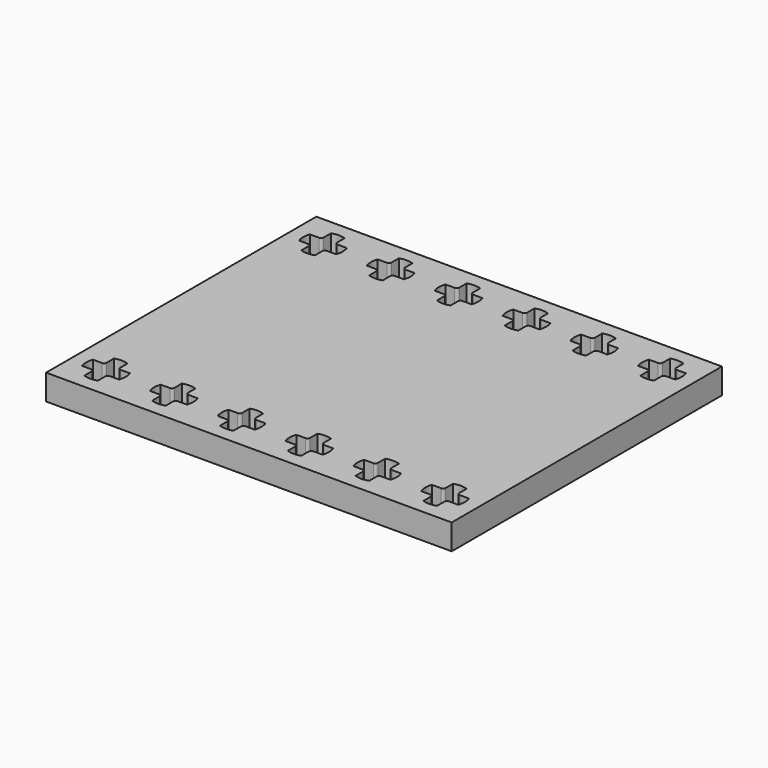
from build123d import *

# Parameters (mm, degrees)
F0_W     = 47.85
F0_H     = 39.85
F1_DEPTH = 3


with BuildPart() as f1:
    # F0 (on Top) → F1 (new body)
    with BuildSketch(Plane.XY):
        Rectangle(F0_W, F0_H)
        with BuildLine():
            Line((-17.816969, -16.8), (-18.9, -16.8))
            ThreePointArc((-18.9, -16.8), (-19.112132, -16.887868), (-19.2, -17.1))
            Line((-19.2, -17.1), (-19.2, -18.183031))
            ThreePointArc((-19.2, -18.183031), (-20, -18.325), (-20.8, -18.183031))
            Line((-20.8, -18.183031), (-20.8, -17.1))
            ThreePointArc((-20.8, -17.1), (-20.887868, -16.887868), (-21.1, -16.8))
            Line((-21.1, -16.8), (-22.183031, -16.8))
            ThreePointArc((-22.183031, -16.8), (-22.325, -16), (-22.183031, -15.2))
            Line((-22.183031, -15.2), (-21.1, -15.2))
            ThreePointArc((-21.1, -15.2), (-20.887868, -15.112132), (-20.8, -14.9))
            Line((-20.8, -14.9), (-20.8, -13.816969))
            ThreePointArc((-20.8, -13.816969), (-20, -13.675), (-19.2, -13.816969))
            Line((-19.2, -13.816969), (-19.2, -14.9))
            ThreePointArc((-19.2, -14.9), (-19.112132, -15.112132), (-18.9, -15.2))
            Line((-18.9, -15.2), (-17.816969, -15.2))
            ThreePointArc((-17.816969, -15.2), (-17.675, -16), (-17.816969, -16.8))
        make_face(mode=Mode.SUBTRACT)
        with BuildLine():
            ThreePointArc((-11.2, -14.9), (-11.112132, -15.112132), (-10.9, -15.2))
            Line((-10.9, -15.2), (-9.816969, -15.2))
            ThreePointArc((-9.816969, -15.2), (-9.675, -16), (-9.816969, -16.8))
            Line((-9.816969, -16.8), (-10.9, -16.8))
            ThreePointArc((-10.9, -16.8), (-11.112132, -16.887868), (-11.2, -17.1))
            Line((-11.2, -17.1), (-11.2, -18.183031))
            ThreePointArc((-11.2, -18.183031), (-12, -18.325), (-12.8, -18.183031))
            Line((-12.8, -18.183031), (-12.8, -17.1))
            ThreePointArc((-12.8, -17.1), (-12.887868, -16.887868), (-13.1, -16.8))
            Line((-13.1, -16.8), (-14.183031, -16.8))
            ThreePointArc((-14.183031, -16.8), (-14.325, -16), (-14.183031, -15.2))
            Line((-14.183031, -15.2), (-13.1, -15.2))
            ThreePointArc((-13.1, -15.2), (-12.887868, -15.112132), (-12.8, -14.9))
            Line((-12.8, -14.9), (-12.8, -13.816969))
            ThreePointArc((-12.8, -13.816969), (-12, -13.675), (-11.2, -13.816969))
            Line((-11.2, -13.816969), (-11.2, -14.9))
        make_face(mode=Mode.SUBTRACT)
        with BuildLine():
            ThreePointArc((-5.1, -15.2), (-4.887868, -15.112132), (-4.8, -14.9))
            Line((-4.8, -14.9), (-4.8, -13.816969))
            ThreePointArc((-4.8, -13.816969), (-4, -13.675), (-3.2, -13.816969))
            Line((-3.2, -13.816969), (-3.2, -14.9))
            ThreePointArc((-3.2, -14.9), (-3.112132, -15.112132), (-2.9, -15.2))
            Line((-2.9, -15.2), (-1.816969, -15.2))
            ThreePointArc((-1.816969, -15.2), (-1.675, -16), (-1.816969, -16.8))
            Line((-1.816969, -16.8), (-2.9, -16.8))
            ThreePointArc((-2.9, -16.8), (-3.112132, -16.887868), (-3.2, -17.1))
            Line((-3.2, -17.1), (-3.2, -18.183031))
            ThreePointArc((-3.2, -18.183031), (-4, -18.325), (-4.8, -18.183031))
            Line((-4.8, -18.183031), (-4.8, -17.1))
            ThreePointArc((-4.8, -17.1), (-4.887868, -16.887868), (-5.1, -16.8))
            Line((-5.1, -16.8), (-6.183031, -16.8))
            ThreePointArc((-6.183031, -16.8), (-6.325, -16), (-6.183031, -15.2))
            Line((-6.183031, -15.2), (-5.1, -15.2))
        make_face(mode=Mode.SUBTRACT)
        with BuildLine():
            ThreePointArc((4.8, -14.9), (4.887868, -15.112132), (5.1, -15.2))
            Line((5.1, -15.2), (6.183031, -15.2))
            ThreePointArc((6.183031, -15.2), (6.325, -16), (6.183031, -16.8))
            Line((6.183031, -16.8), (5.1, -16.8))
            ThreePointArc((5.1, -16.8), (4.887868, -16.887868), (4.8, -17.1))
            Line((4.8, -17.1), (4.8, -18.183031))
            ThreePointArc((4.8, -18.183031), (4, -18.325), (3.2, -18.183031))
            Line((3.2, -18.183031), (3.2, -17.1))
            ThreePointArc((3.2, -17.1), (3.112132, -16.887868), (2.9, -16.8))
            Line((2.9, -16.8), (1.816969, -16.8))
            ThreePointArc((1.816969, -16.8), (1.675, -16), (1.816969, -15.2))
            Line((1.816969, -15.2), (2.9, -15.2))
            ThreePointArc((2.9, -15.2), (3.112132, -15.112132), (3.2, -14.9))
            Line((3.2, -14.9), (3.2, -13.816969))
            ThreePointArc((3.2, -13.816969), (4, -13.675), (4.8, -13.816969))
            Line((4.8, -13.816969), (4.8, -14.9))
        make_face(mode=Mode.SUBTRACT)
        with BuildLine():
            ThreePointArc((12.8, -14.9), (12.887868, -15.112132), (13.1, -15.2))
            Line((13.1, -15.2), (14.183031, -15.2))
            ThreePointArc((14.183031, -15.2), (14.325, -16), (14.183031, -16.8))
            Line((14.183031, -16.8), (13.1, -16.8))
            ThreePointArc((13.1, -16.8), (12.887868, -16.887868), (12.8, -17.1))
            Line((12.8, -17.1), (12.8, -18.183031))
            ThreePointArc((12.8, -18.183031), (12, -18.325), (11.2, -18.183031))
            Line((11.2, -18.183031), (11.2, -17.1))
            ThreePointArc((11.2, -17.1), (11.112132, -16.887868), (10.9, -16.8))
            Line((10.9, -16.8), (9.816969, -16.8))
            ThreePointArc((9.816969, -16.8), (9.675, -16), (9.816969, -15.2))
            Line((9.816969, -15.2), (10.9, -15.2))
            ThreePointArc((10.9, -15.2), (11.112132, -15.112132), (11.2, -14.9))
            Line((11.2, -14.9), (11.2, -13.816969))
            ThreePointArc((11.2, -13.816969), (12, -13.675), (12.8, -13.816969))
            Line((12.8, -13.816969), (12.8, -14.9))
        make_face(mode=Mode.SUBTRACT)
        with BuildLine():
            ThreePointArc((19.2, -17.1), (19.112132, -16.887868), (18.9, -16.8))
            Line((18.9, -16.8), (17.816969, -16.8))
            ThreePointArc((17.816969, -16.8), (17.675, -16), (17.816969, -15.2))
            Line((17.816969, -15.2), (18.9, -15.2))
            ThreePointArc((18.9, -15.2), (19.112132, -15.112132), (19.2, -14.9))
            Line((19.2, -14.9), (19.2, -13.816969))
            ThreePointArc((19.2, -13.816969), (20, -13.675), (20.8, -13.816969))
            Line((20.8, -13.816969), (20.8, -14.9))
            ThreePointArc((20.8, -14.9), (20.887868, -15.112132), (21.1, -15.2))
            Line((21.1, -15.2), (22.183031, -15.2))
            ThreePointArc((22.183031, -15.2), (22.325, -16), (22.183031, -16.8))
            Line((22.183031, -16.8), (21.1, -16.8))
            ThreePointArc((21.1, -16.8), (20.887868, -16.887868), (20.8, -17.1))
            Line((20.8, -17.1), (20.8, -18.183031))
            ThreePointArc((20.8, -18.183031), (20, -18.325), (19.2, -18.183031))
            Line((19.2, -18.183031), (19.2, -17.1))
        make_face(mode=Mode.SUBTRACT)
        with BuildLine():
            ThreePointArc((-20.8, 18.183031), (-20, 18.325), (-19.2, 18.183031))
            Line((-19.2, 18.183031), (-19.2, 17.1))
            ThreePointArc((-19.2, 17.1), (-19.112132, 16.887868), (-18.9, 16.8))
            Line((-18.9, 16.8), (-17.816969, 16.8))
            ThreePointArc((-17.816969, 16.8), (-17.675, 16), (-17.816969, 15.2))
            Line((-17.816969, 15.2), (-18.9, 15.2))
            ThreePointArc((-18.9, 15.2), (-19.112132, 15.112132), (-19.2, 14.9))
            Line((-19.2, 14.9), (-19.2, 13.816969))
            ThreePointArc((-19.2, 13.816969), (-20, 13.675), (-20.8, 13.816969))
            Line((-20.8, 13.816969), (-20.8, 14.9))
            ThreePointArc((-20.8, 14.9), (-20.887868, 15.112132), (-21.1, 15.2))
            Line((-21.1, 15.2), (-22.183031, 15.2))
            ThreePointArc((-22.183031, 15.2), (-22.325, 16), (-22.183031, 16.8))
            Line((-22.183031, 16.8), (-21.1, 16.8))
            ThreePointArc((-21.1, 16.8), (-20.887868, 16.887868), (-20.8, 17.1))
            Line((-20.8, 17.1), (-20.8, 18.183031))
        make_face(mode=Mode.SUBTRACT)
        with BuildLine():
            ThreePointArc((-12.8, 18.183031), (-12, 18.325), (-11.2, 18.183031))
            Line((-11.2, 18.183031), (-11.2, 17.1))
            ThreePointArc((-11.2, 17.1), (-11.112132, 16.887868), (-10.9, 16.8))
            Line((-10.9, 16.8), (-9.816969, 16.8))
            ThreePointArc((-9.816969, 16.8), (-9.675, 16), (-9.816969, 15.2))
            Line((-9.816969, 15.2), (-10.9, 15.2))
            ThreePointArc((-10.9, 15.2), (-11.112132, 15.112132), (-11.2, 14.9))
            Line((-11.2, 14.9), (-11.2, 13.816969))
            ThreePointArc((-11.2, 13.816969), (-12, 13.675), (-12.8, 13.816969))
            Line((-12.8, 13.816969), (-12.8, 14.9))
            ThreePointArc((-12.8, 14.9), (-12.887868, 15.112132), (-13.1, 15.2))
            Line((-13.1, 15.2), (-14.183031, 15.2))
            ThreePointArc((-14.183031, 15.2), (-14.325, 16), (-14.183031, 16.8))
            Line((-14.183031, 16.8), (-13.1, 16.8))
            ThreePointArc((-13.1, 16.8), (-12.887868, 16.887868), (-12.8, 17.1))
            Line((-12.8, 17.1), (-12.8, 18.183031))
        make_face(mode=Mode.SUBTRACT)
        with BuildLine():
            ThreePointArc((-4.8, 18.183031), (-4, 18.325), (-3.2, 18.183031))
            Line((-3.2, 18.183031), (-3.2, 17.1))
            ThreePointArc((-3.2, 17.1), (-3.112132, 16.887868), (-2.9, 16.8))
            Line((-2.9, 16.8), (-1.816969, 16.8))
            ThreePointArc((-1.816969, 16.8), (-1.675, 16), (-1.816969, 15.2))
            Line((-1.816969, 15.2), (-2.9, 15.2))
            ThreePointArc((-2.9, 15.2), (-3.112132, 15.112132), (-3.2, 14.9))
            Line((-3.2, 14.9), (-3.2, 13.816969))
            ThreePointArc((-3.2, 13.816969), (-4, 13.675), (-4.8, 13.816969))
            Line((-4.8, 13.816969), (-4.8, 14.9))
            ThreePointArc((-4.8, 14.9), (-4.887868, 15.112132), (-5.1, 15.2))
            Line((-5.1, 15.2), (-6.183031, 15.2))
            ThreePointArc((-6.183031, 15.2), (-6.325, 16), (-6.183031, 16.8))
            Line((-6.183031, 16.8), (-5.1, 16.8))
            ThreePointArc((-5.1, 16.8), (-4.887868, 16.887868), (-4.8, 17.1))
            Line((-4.8, 17.1), (-4.8, 18.183031))
        make_face(mode=Mode.SUBTRACT)
        with BuildLine():
            ThreePointArc((3.2, 18.183031), (4, 18.325), (4.8, 18.183031))
            Line((4.8, 18.183031), (4.8, 17.1))
            ThreePointArc((4.8, 17.1), (4.887868, 16.887868), (5.1, 16.8))
            Line((5.1, 16.8), (6.183031, 16.8))
            ThreePointArc((6.183031, 16.8), (6.325, 16), (6.183031, 15.2))
            Line((6.183031, 15.2), (5.1, 15.2))
            ThreePointArc((5.1, 15.2), (4.887868, 15.112132), (4.8, 14.9))
            Line((4.8, 14.9), (4.8, 13.816969))
            ThreePointArc((4.8, 13.816969), (4, 13.675), (3.2, 13.816969))
            Line((3.2, 13.816969), (3.2, 14.9))
            ThreePointArc((3.2, 14.9), (3.112132, 15.112132), (2.9, 15.2))
            Line((2.9, 15.2), (1.816969, 15.2))
            ThreePointArc((1.816969, 15.2), (1.675, 16), (1.816969, 16.8))
            Line((1.816969, 16.8), (2.9, 16.8))
            ThreePointArc((2.9, 16.8), (3.112132, 16.887868), (3.2, 17.1))
            Line((3.2, 17.1), (3.2, 18.183031))
        make_face(mode=Mode.SUBTRACT)
        with BuildLine():
            ThreePointArc((11.2, 18.183031), (12, 18.325), (12.8, 18.183031))
            Line((12.8, 18.183031), (12.8, 17.1))
            ThreePointArc((12.8, 17.1), (12.887868, 16.887868), (13.1, 16.8))
            Line((13.1, 16.8), (14.183031, 16.8))
            ThreePointArc((14.183031, 16.8), (14.325, 16), (14.183031, 15.2))
            Line((14.183031, 15.2), (13.1, 15.2))
            ThreePointArc((13.1, 15.2), (12.887868, 15.112132), (12.8, 14.9))
            Line((12.8, 14.9), (12.8, 13.816969))
            ThreePointArc((12.8, 13.816969), (12, 13.675), (11.2, 13.816969))
            Line((11.2, 13.816969), (11.2, 14.9))
            ThreePointArc((11.2, 14.9), (11.112132, 15.112132), (10.9, 15.2))
            Line((10.9, 15.2), (9.816969, 15.2))
            ThreePointArc((9.816969, 15.2), (9.675, 16), (9.816969, 16.8))
            Line((9.816969, 16.8), (10.9, 16.8))
            ThreePointArc((10.9, 16.8), (11.112132, 16.887868), (11.2, 17.1))
            Line((11.2, 17.1), (11.2, 18.183031))
        make_face(mode=Mode.SUBTRACT)
        with BuildLine():
            ThreePointArc((19.2, 18.183031), (20, 18.325), (20.8, 18.183031))
            Line((20.8, 18.183031), (20.8, 17.1))
            ThreePointArc((20.8, 17.1), (20.887868, 16.887868), (21.1, 16.8))
            Line((21.1, 16.8), (22.183031, 16.8))
            ThreePointArc((22.183031, 16.8), (22.325, 16), (22.183031, 15.2))
            Line((22.183031, 15.2), (21.1, 15.2))
            ThreePointArc((21.1, 15.2), (20.887868, 15.112132), (20.8, 14.9))
            Line((20.8, 14.9), (20.8, 13.816969))
            ThreePointArc((20.8, 13.816969), (20, 13.675), (19.2, 13.816969))
            Line((19.2, 13.816969), (19.2, 14.9))
            ThreePointArc((19.2, 14.9), (19.112132, 15.112132), (18.9, 15.2))
            Line((18.9, 15.2), (17.816969, 15.2))
            ThreePointArc((17.816969, 15.2), (17.675, 16), (17.816969, 16.8))
            Line((17.816969, 16.8), (18.9, 16.8))
            ThreePointArc((18.9, 16.8), (19.112132, 16.887868), (19.2, 17.1))
            Line((19.2, 17.1), (19.2, 18.183031))
        make_face(mode=Mode.SUBTRACT)
    extrude(amount=F1_DEPTH)


solid = f1.part
